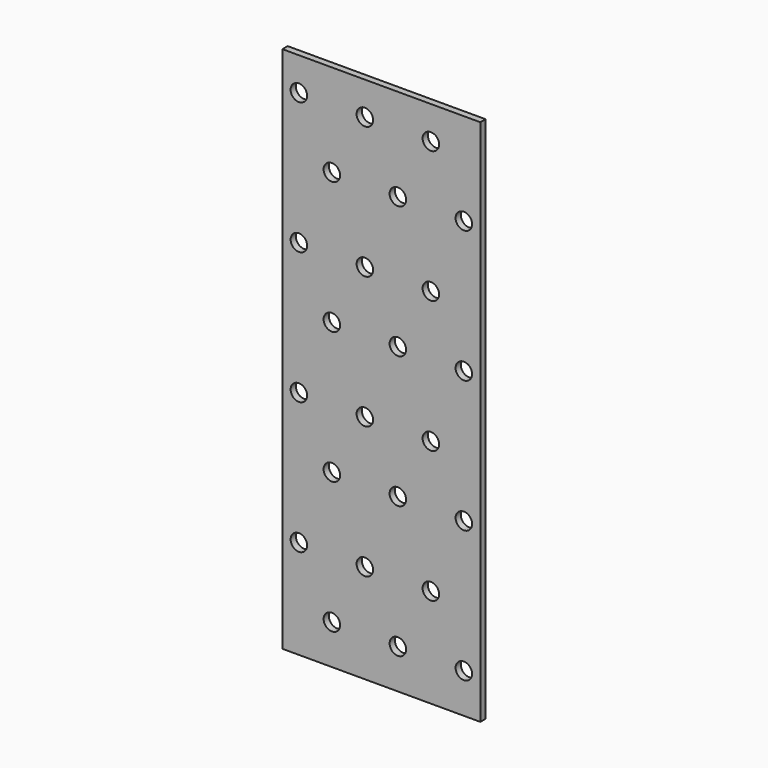
from build123d import *

# Parameters (mm, degrees)
SKETCH_W                     = 60
SKETCH_H                     = 160
PAD_DEPTH                    = 2
SKETCH001_R                  = 2.5
POCKET_DEPTH                 = 343.784557
SKETCH001_LINEARPATTERN_2_R  = 2.5
POCKET_LINEARPATTERN_2_DEPTH = 343.784557
SKETCH001_LINEARPATTERN_3_R  = 2.5
POCKET_LINEARPATTERN_3_DEPTH = 343.784557
LINEARPATTERN001_COUNT       = 4
LINEARPATTERN001_PITCH       = 40


with BuildPart() as part:
    # Sketch → Pad (new body)
    with BuildSketch(Plane.XZ):
        with Locations((30, 80)):
            Rectangle(SKETCH_W, SKETCH_H)
    extrude(amount=PAD_DEPTH)

    # Sketch001 (on Face6 of Pad) → Pocket (cut, through all)
    with BuildSketch(Plane.XZ.offset(2)):
        with Locations((15, 12)):
            Circle(SKETCH001_R)
        with Locations((5, 30)):
            Circle(SKETCH001_R)
    pocket = extrude(amount=-POCKET_DEPTH, mode=Mode.SUBTRACT)

    # Sketch001 LinearPattern 2 → Pocket LinearPattern 2 (cut, through all)
    with BuildSketch(Plane(origin=(20, -2, 0), x_dir=(1, 0, 0), z_dir=(0, -1, 0))):
        with Locations((15, 12)):
            Circle(SKETCH001_LINEARPATTERN_2_R)
        with Locations((5, 30)):
            Circle(SKETCH001_LINEARPATTERN_2_R)
    pocket_linearpattern_2 = extrude(amount=-POCKET_LINEARPATTERN_2_DEPTH, mode=Mode.SUBTRACT)

    # Sketch001 LinearPattern 3 → Pocket LinearPattern 3 (cut, through all)
    with BuildSketch(Plane(origin=(40, -2, 0), x_dir=(1, 0, 0), z_dir=(0, -1, 0))):
        with Locations((15, 12)):
            Circle(SKETCH001_LINEARPATTERN_3_R)
        with Locations((5, 30)):
            Circle(SKETCH001_LINEARPATTERN_3_R)
    pocket_linearpattern_3 = extrude(amount=-POCKET_LINEARPATTERN_3_DEPTH, mode=Mode.SUBTRACT)

    # LinearPattern001: Pocket, Pocket LinearPattern 2, Pocket LinearPattern 3 ×4
    with Locations(*[(0, 0, i * LINEARPATTERN001_PITCH) for i in range(1, LINEARPATTERN001_COUNT)]):
        add(pocket, mode=Mode.SUBTRACT)
        add(pocket_linearpattern_2, mode=Mode.SUBTRACT)
        add(pocket_linearpattern_3, mode=Mode.SUBTRACT)


solid = part.part
